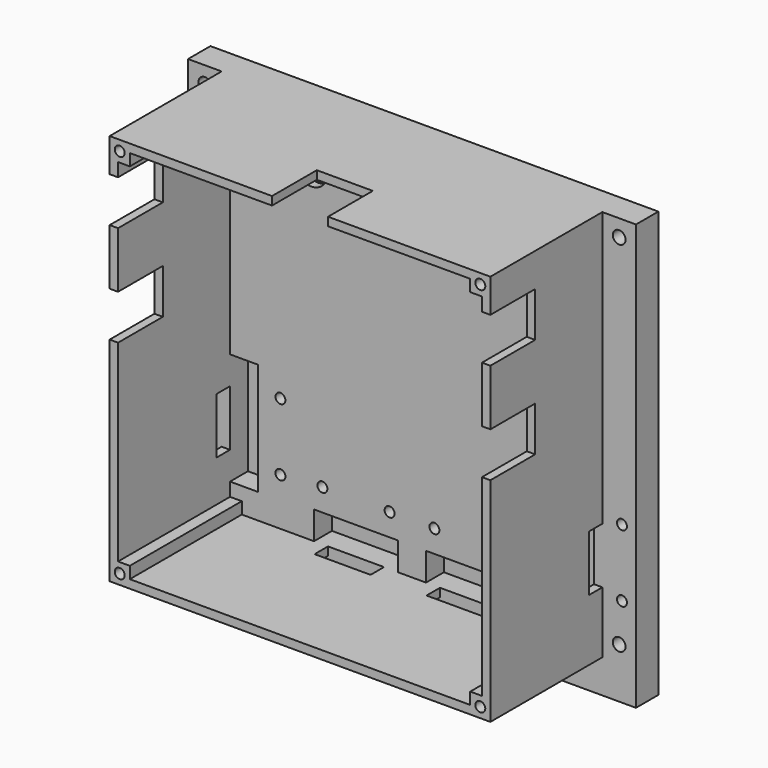
from build123d import *

# Parameters (mm, degrees)
F4_DEPTH  = 5
F5_W      = 65
F5_H      = 67
F7_DEPTH  = 30
F8_W      = 5
F8_H      = 20
F8_W_2    = 15
F8_H_2    = 5
F9_DEPTH  = 4
F6_W      = 3.6
F6_H      = 3.6
F10_DEPTH = 30
F11_W     = 4
F11_H     = 10
F11_W_2   = 10
F11_H_2   = 3
F12_DEPTH = 3
F13_W     = 10
F13_H     = 4
F13_W_2   = 4
F13_H_2   = 8
F14_DEPTH = 10
F3_R      = 0.889
F3_R_2    = 1.143
F3_R_3    = 2.9
F15_DEPTH = 30.001
F16_W     = 10
F16_H     = 10
F17_DEPTH = 3.5


with BuildPart() as f4:
    # F1 (on Front) → F4 (new body)
    with BuildSketch(Plane.XZ):
        Polygon((51.625, -32.5), (51.625, 37.5), (-28.375, 37.5), (-28.375, -32.5), (-28.375, -38.5), (51.625, -38.5), align=None)
    extrude(amount=F4_DEPTH)

    # F5 (on Front) → F7 (join)
    with BuildSketch(Plane.XZ):
        Polygon((45.625, 37.5), (-22.375, 37.5), (-22.375, -32.5), (45.625, -32.5), (45.625, -26.5), align=None)
        with Locations((11.625, 2.5)):
            Rectangle(F5_W, F5_H, mode=Mode.SUBTRACT)
    extrude(amount=F7_DEPTH)

    # F8 (on face) → F9 (cut)
    with BuildSketch(Plane.XZ.offset(5)):
        with Locations((-18.375, -16.5)):
            Rectangle(F8_W, F8_H)
        with Locations((1.625, -28.5)):
            Rectangle(F8_W_2, F8_H_2)
        with Locations((21.625, -28.5)):
            Rectangle(F8_W_2, F8_H_2)
        with Locations((41.625, -16.5)):
            Rectangle(F8_W, F8_H)
    extrude(amount=-F9_DEPTH, mode=Mode.SUBTRACT)

    # F6 (on Front) → F10 (join)
    with BuildSketch(Plane.XZ):
        with Locations((-20.575, 35.7)):
            Rectangle(F6_W, F6_H)
        with Locations((43.825, 35.7)):
            Rectangle(F6_W, F6_H)
        with Locations((-20.575, -30.7)):
            Rectangle(F6_W, F6_H)
        with Locations((43.825, -30.7)):
            Rectangle(F6_W, F6_H)
    extrude(amount=F10_DEPTH)

    # F11 (on face) → F12 (cut)
    with BuildSketch(Plane.XZ.offset(5)):
        with Locations((-21.875, -16.5)):
            Rectangle(F11_W, F11_H)
        with Locations((45.125, -16.5)):
            Rectangle(F11_W, F11_H)
        with Locations((21.625, -32.5)):
            Rectangle(F11_W_2, F11_H_2)
        with Locations((1.625, -32.5)):
            Rectangle(F11_W_2, F11_H_2)
    extrude(amount=F12_DEPTH, mode=Mode.SUBTRACT)

    # F13 (on face) → F14 (cut)
    with BuildSketch(Plane.XZ.offset(30)):
        with Locations((11.625, 35.5)):
            Rectangle(F13_W, F13_H)
        with Locations((-20.375, 27.5)):
            Rectangle(F13_W_2, F13_H_2)
        with Locations((-20.375, 9.5)):
            Rectangle(F13_W_2, F13_H_2)
        with Locations((43.625, 27.5)):
            Rectangle(F13_W_2, F13_H_2)
        with Locations((43.625, 9.5)):
            Rectangle(F13_W_2, F13_H_2)
    extrude(amount=-F14_DEPTH, mode=Mode.SUBTRACT)

    # F3 (on Front) → F15 (cut, through all)
    with BuildSketch(Plane.XZ):
        with Locations((-11.875, -10.5)):
            Circle(F3_R)
        with Locations((-25.875, -10.5)):
            Circle(F3_R)
        with Locations((-25.875, -22.5)):
            Circle(F3_R)
        with Locations((-11.875, -22.5)):
            Circle(F3_R)
        with Locations((-25.375, -29.5)):
            Circle(F3_R_2)
        with Locations((-25.375, 34.5)):
            Circle(F3_R_2)
        with Locations((48.625, 34.5)):
            Circle(F3_R_2)
        with Locations((35.125, -10.5)):
            Circle(F3_R)
        with Locations((35.125, -22.5)):
            Circle(F3_R)
        with Locations((49.125, -10.5)):
            Circle(F3_R)
        with Locations((49.125, -22.5)):
            Circle(F3_R)
        with Locations((48.625, -29.5)):
            Circle(F3_R_2)
        with Locations((-20.575, 35.7)):
            Circle(F3_R)
        with Locations((43.825, 35.7)):
            Circle(F3_R)
        with Locations((-20.575, -30.7)):
            Circle(F3_R)
        with Locations((-4.375, -22)):
            Circle(F3_R)
        with Locations((7.625, -22)):
            Circle(F3_R)
        with Locations((-4.375, -36)):
            Circle(F3_R)
        with Locations((7.625, -36)):
            Circle(F3_R)
        with Locations((15.625, -22)):
            Circle(F3_R)
        with Locations((27.625, -22)):
            Circle(F3_R)
        with Locations((27.625, -36)):
            Circle(F3_R)
        with Locations((15.625, -36)):
            Circle(F3_R)
        with Locations((43.825, -30.7)):
            Circle(F3_R)
        with Locations((-6.375, 27.5)):
            Circle(F3_R_3)
    extrude(amount=F15_DEPTH, mode=Mode.SUBTRACT)

    # F16 (on Front) → F17 (cut)
    with BuildSketch(Plane.XZ):
        with Locations((-6.375, 27.5)):
            Rectangle(F16_W, F16_H)
    extrude(amount=F17_DEPTH, mode=Mode.SUBTRACT)


solid = f4.part
